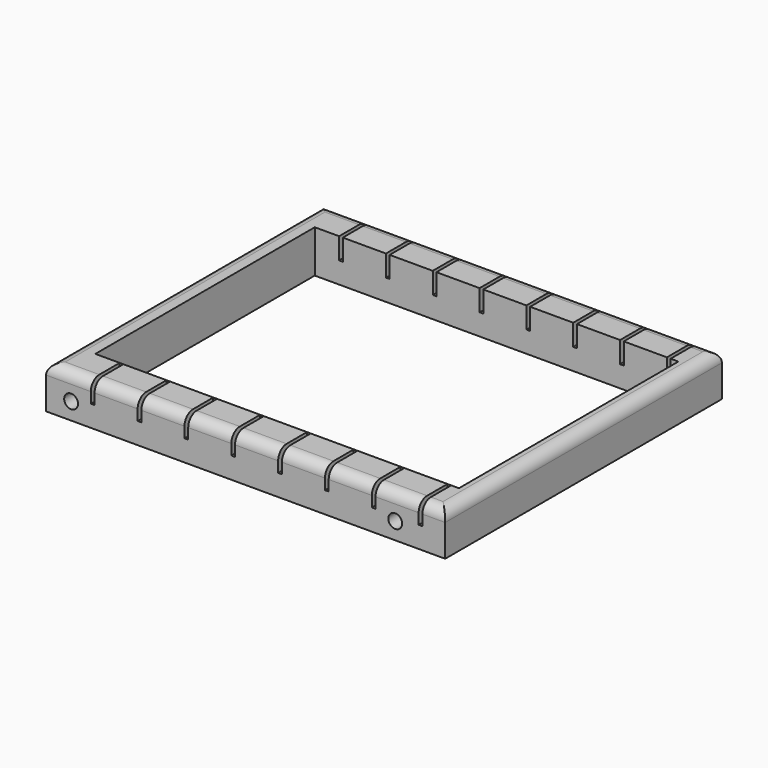
from build123d import *

# Parameters (mm, degrees)
F0_W      = 75
F0_H      = 65
F1_DEPTH  = 8
F2_R      = 2
F3_W      = 68.330624
F3_H      = 51.542157
F4_DEPTH  = 8.001
F5_W      = 0.7
F5_H      = 7.5
F6_DEPTH  = 4
F7_R      = 1.3
F9_DEPTH  = 5
F8_R      = 1.3
F10_DEPTH = 5


with BuildPart() as f1:
    # F0 (on Top) → F1 (new body)
    with BuildSketch(Plane.XY):
        Rectangle(F0_W, F0_H)
    extrude(amount=F1_DEPTH)

    # F2
    f2_edges = [f1.edges().sort_by_distance(p)[0] for p in [
        (0, -32.5, 8),
        (37.5, 0, 8),
        (0, 32.5, 8),
        (-37.5, 0, 8),
    ]]
    fillet(f2_edges, radius=F2_R)

    # F3 (on face) → F4 (cut, through all)
    with BuildSketch(Plane.XY.offset(8)):
        with Locations((0.502158, 0.043064)):
            Rectangle(F3_W, F3_H)
    extrude(amount=-F4_DEPTH, mode=Mode.SUBTRACT)

    # F5 (on face) → F6 (cut)
    with BuildSketch(Plane.XY.offset(8)):
        with Locations((-28.739675, 27.984681)):
            Rectangle(F5_W, F5_H)
        with Locations((-28.739675, -29.515319)):
            Rectangle(F5_W, F5_H)
        with Locations((-19.939675, 27.984681)):
            Rectangle(F5_W, F5_H)
        with Locations((-19.939675, -29.515319)):
            Rectangle(F5_W, F5_H)
        with Locations((-11.139675, 27.984681)):
            Rectangle(F5_W, F5_H)
        with Locations((-11.139675, -29.515319)):
            Rectangle(F5_W, F5_H)
        with Locations((-2.339675, 27.984681)):
            Rectangle(F5_W, F5_H)
        with Locations((-2.339675, -29.515319)):
            Rectangle(F5_W, F5_H)
        with Locations((6.460325, 27.984681)):
            Rectangle(F5_W, F5_H)
        with Locations((6.460325, -29.515319)):
            Rectangle(F5_W, F5_H)
        with Locations((15.260325, 27.984681)):
            Rectangle(F5_W, F5_H)
        with Locations((15.260325, -29.515319)):
            Rectangle(F5_W, F5_H)
        with Locations((24.060325, 27.984681)):
            Rectangle(F5_W, F5_H)
        with Locations((24.060325, -29.515319)):
            Rectangle(F5_W, F5_H)
        with Locations((32.860325, 27.984681)):
            Rectangle(F5_W, F5_H)
        with Locations((32.860325, -29.515319)):
            Rectangle(F5_W, F5_H)
    extrude(amount=-F6_DEPTH, mode=Mode.SUBTRACT)

    # F7 (on face) → F9 (cut)
    with BuildSketch(Plane.XZ.offset(32.5)):
        with Locations((-32.797666, 3.178249)):
            Circle(F7_R)
        with Locations((28.105985, 3.178249)):
            Circle(F7_R)
    extrude(amount=-F9_DEPTH, mode=Mode.SUBTRACT)

    # F8 (on face) → F10 (cut)
    with BuildSketch(Plane(origin=(0, 32.5, 0), x_dir=(-1, 0, 0), z_dir=(0, 1, 0))):
        with Locations((32.797666, 3.178249)):
            Circle(F8_R)
        with Locations((-28.105985, 3.178249)):
            Circle(F8_R)
    extrude(amount=-F10_DEPTH, mode=Mode.SUBTRACT)


solid = f1.part
